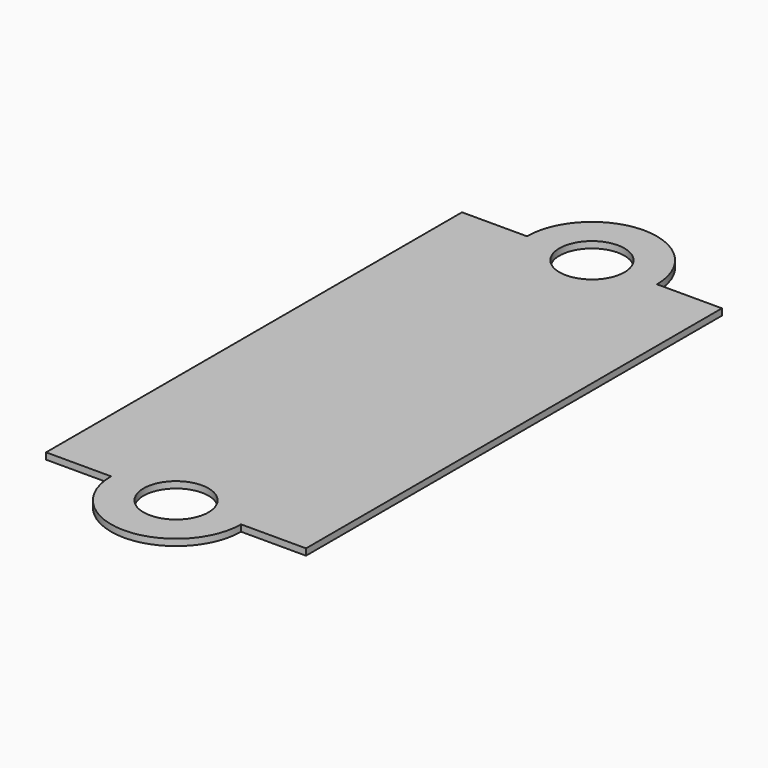
from build123d import *

# Parameters (mm, degrees)
CYLINDER005_R     = 1
CYLINDER005_DEPTH = 10
CYLINDER004_R     = 1
CYLINDER004_DEPTH = 10
CYLINDER001_R     = 2
CYLINDER001_DEPTH = 0.2
CYLINDER_R        = 2
CYLINDER_DEPTH    = 0.2
BOX008_W          = 8
BOX008_H          = 16
BOX008_DEPTH      = 0.2


with BuildPart() as cilindro005:
    # Cylinder005 → Cylinder005 (new body)
    with BuildSketch(Plane(origin=(38.5, 11, 1), x_dir=(1, 0, 0), z_dir=(0, 0, 1))):
        Circle(CYLINDER005_R)
    extrude(amount=CYLINDER005_DEPTH)


with BuildPart() as cilindro004:
    # Cylinder004 → Cylinder004 (new body)
    with BuildSketch(Plane(origin=(38.5, 27, 1), x_dir=(1, 0, 0), z_dir=(0, 0, 1))):
        Circle(CYLINDER004_R)
    extrude(amount=CYLINDER004_DEPTH)


with BuildPart() as cilindro001:
    # Cylinder001 → Cylinder001 (new body)
    with BuildSketch(Plane(origin=(39, 26.5, 1), x_dir=(1, 0, 0), z_dir=(0, 0, 1))):
        Circle(CYLINDER001_R)
    extrude(amount=CYLINDER001_DEPTH)


with BuildPart() as cilindro:
    # Cylinder → Cylinder (new body)
    with BuildSketch(Plane(origin=(39, 10.5, 1), x_dir=(1, 0, 0), z_dir=(0, 0, 1))):
        Circle(CYLINDER_R)
    extrude(amount=CYLINDER_DEPTH)


with BuildPart() as obj1:
    # Box008 → Box008 (new body)
    with BuildSketch(Plane(origin=(35, 10.5, 1), x_dir=(1, 0, 0), z_dir=(0, 0, 1))):
        with Locations((4, 8)):
            Rectangle(BOX008_W, BOX008_H)
    extrude(amount=BOX008_DEPTH)

    # Fusion: union Cilindro001, Cilindro
    add(cilindro001.part)
    add(cilindro.part)


with BuildPart() as obj1_1:
    # Fusion placement: moved
    add(obj1.part.moved(Location((-0.5, 0.5, 4.8))))

    # Cut005: cut Cilindro004
    add(cilindro004.part, mode=Mode.SUBTRACT)

    # Cut006: cut Cilindro005
    add(cilindro005.part, mode=Mode.SUBTRACT)


solid = obj1_1.part
